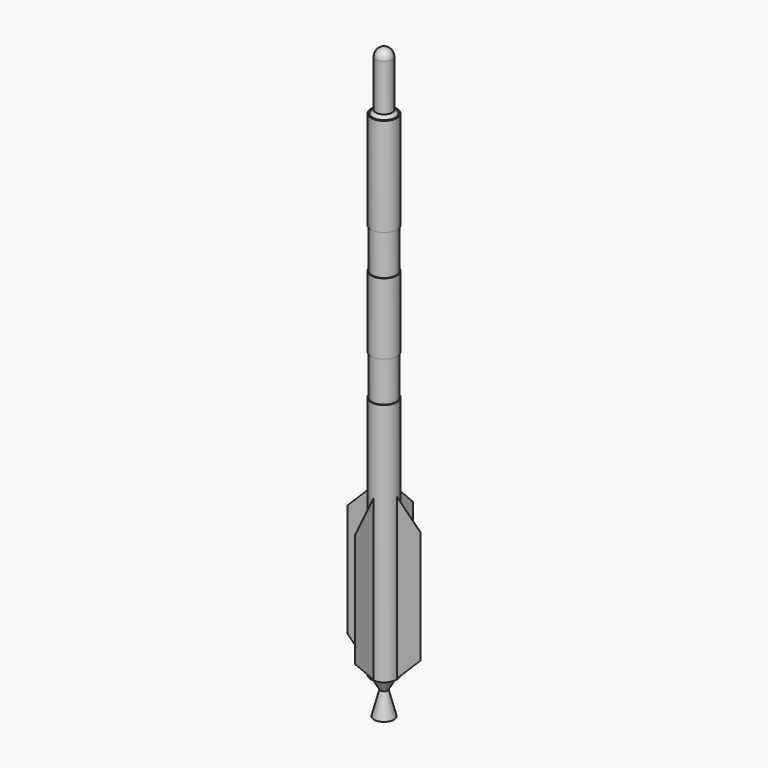
from build123d import *

# Parameters (mm, degrees)
SKETCH_R           = 160
PAD_DEPTH          = 6115
CHAMFER_SIZE       = 40
PAD001_DEPTH       = 1
POLARPATTERN_COUNT = 4
SKETCH004_R        = 160
SKETCH004_R_2      = 150
POCKET_DEPTH       = 500
SKETCH005_R        = 160
SKETCH005_R_2      = 150
POCKET001_DEPTH    = 500


with BuildPart() as part:
    # Sketch → Pad (new body)
    with BuildSketch(Plane.XY):
        Circle(SKETCH_R)
    extrude(amount=PAD_DEPTH)

    # Sketch001 → Revolution (revolve)
    with BuildSketch(Plane.XZ):
        with BuildLine():
            ThreePointArc((0, 6835), (-70.710632, 6805.710724), (-100, 6735.00013))
            Line((-100, 6735.00013), (-100, 6115))
            Line((-100, 6115), (0, 6115))
            Line((0, 6115), (0, 6735.00013))
            Line((0, 6835), (0, 6735.00013))
        make_face()
    revolve(axis=Axis((0, 0, 0), (0, 0, 1)))

    # Sketch002 → Revolution001 (revolve)
    with BuildSketch(Plane.YZ):
        Polygon((-135, 0), (-44, -157.616623), (-122.34389, -450), (0, -450), (0, 0), align=None)
    revolve(axis=Axis((0, 0, 0), (0, 0, 1)))

    # Chamfer
    chamfer_edges = [part.edges().sort_by_distance(p)[0] for p in [
        (100, 0, 6115),
    ]]
    chamfer(chamfer_edges, length=CHAMFER_SIZE)

    # Sketch003 → Pad001 (join, symmetric)
    with BuildSketch(Plane.YZ):
        Polygon((-150, 2000), (-150, 0), (-450, 300), (-450, 1700), align=None)
    pad001 = extrude(amount=PAD001_DEPTH, both=True)

    # PolarPattern: Pad001 ×4 about axis
    polarpattern_axis = Axis((0, 0, 0), (0, 0, 1))
    for i in range(1, POLARPATTERN_COUNT):
        add(pad001.rotate(polarpattern_axis, i * 360 / POLARPATTERN_COUNT))

    # Sketch004 (on DatumPlane) → Pocket (cut)
    with BuildSketch(Plane(origin=(0, 0, 3020), x_dir=(-1, 0, 0), z_dir=(0, 0, 1))):
        Circle(SKETCH004_R)
        Circle(SKETCH004_R_2, mode=Mode.SUBTRACT)
    extrude(amount=POCKET_DEPTH, mode=Mode.SUBTRACT)

    # Sketch005 (on DatumPlane) → Pocket001 (cut)
    with BuildSketch(Plane(origin=(0, 0, 4400), x_dir=(-1, 0, 0), z_dir=(0, 0, 1))):
        Circle(SKETCH005_R)
        Circle(SKETCH005_R_2, mode=Mode.SUBTRACT)
    extrude(amount=POCKET001_DEPTH, mode=Mode.SUBTRACT)


solid = part.part
